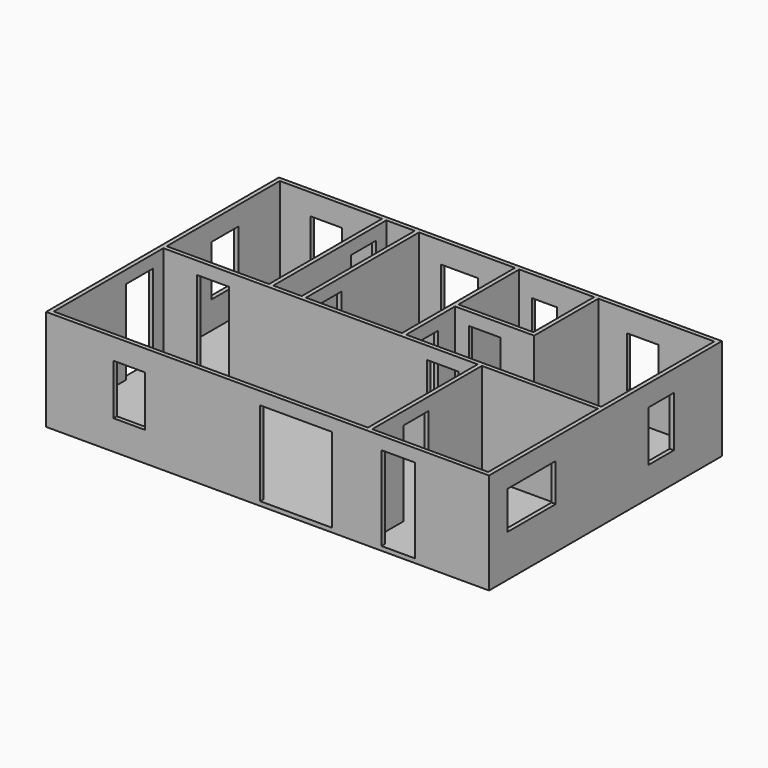
from build123d import *

# Parameters (mm, degrees)
F34_W     = 10668
F34_H     = 7010.4
F0_DEPTH  = 2438.4
F35_T     = -101.6
F1_W      = 101.6
F1_H      = 3403.6
F1_H_2    = 3302
F2_DEPTH  = 2336.8
F36_W     = 762
F36_H     = 2032
F3_DEPTH  = 101.6
F37_W     = 812.8
F37_H     = 2032
F38_DEPTH = 101.6
F39_W     = 812.8
F39_H     = 2032
F4_DEPTH  = 101.6
F5_W      = 812.8
F5_H      = 1219.2
F6_DEPTH  = 101.6
F7_W      = 762
F7_H      = 1219.2
F40_DEPTH = 101.6
F8_W      = 762
F8_H      = 2032
F9_DEPTH  = 101.6
F10_W     = 762
F10_H     = 2032
F11_DEPTH = 101.6
F12_W     = 762
F12_H     = 2032
F13_DEPTH = 101.6
F14_W     = 762
F14_H     = 2032
F15_DEPTH = 101.6
F16_W     = 889
F16_H     = 1219.2
F17_DEPTH = 101.6
F18_W     = 609.6
F18_H     = 762
F19_DEPTH = 101.6
F20_W     = 1447.8
F20_H     = 914.4
F21_DEPTH = 101.6
F22_W     = 762
F22_H     = 1219.2
F23_DEPTH = 101.6
F24_W     = 762
F24_H     = 1219.2
F25_DEPTH = 101.6
F26_W     = 762
F26_H     = 1219.2
F27_DEPTH = 101.6
F28_W     = 1727.2
F28_H     = 2032
F29_DEPTH = 101.6
F30_W     = 762
F30_H     = 2032
F31_DEPTH = 101.6
F32_W     = 762
F32_H     = 2032
F33_DEPTH = 101.6


with BuildPart() as f0:
    # F34 (on Top) → F0 (new body)
    with BuildSketch(Plane.XY):
        with Locations((5334, 3505.2)):
            Rectangle(F34_W, F34_H)
    extrude(amount=F0_DEPTH)

    # F35
    f35_openings = [f0.faces().sort_by_distance(p)[0] for p in [
        (5334, 3505.2, 2438.4),
    ]]
    offset(amount=F35_T, openings=f35_openings)

    # F1 (on face) → F2 (join, through all)
    with BuildSketch(Plane.XY.offset(101.6)):
        with Locations((2616.2, 5207)):
            Rectangle(F1_W, F1_H)
        Polygon((7772.4, 3403.6), (10566.4, 3403.6), (10566.4, 3505.2), (5867.4, 3505.2), (5765.8, 3505.2), (3454.4, 3505.2), (3352.8, 3505.2), (2667, 3505.2), (2565.4, 3505.2), (101.6, 3505.2), (101.6, 3403.6), (7670.8, 3403.6), align=None)
        with Locations((3403.6, 5207)):
            Rectangle(F1_W, F1_H)
        Polygon((5765.8, 3505.2), (5867.4, 3505.2), (5867.4, 4978.4), (5867.4, 5080), (5867.4, 6908.8), (5765.8, 6908.8), align=None)
        Polygon((5867.4, 5080), (5867.4, 4978.4), (7772.4, 4978.4), (7772.4, 6908.8), (7670.8, 6908.8), (7670.8, 5080), align=None)
        with Locations((7721.6, 1752.6)):
            Rectangle(F1_W, F1_H_2)
    extrude(amount=F2_DEPTH)

    # F36 (on face) → F3 (cut, through all)
    with BuildSketch(Plane(origin=(0, 3505.2, 0), x_dir=(-1, 0, 0), z_dir=(0, 1, 0))):
        with Locations((-1295.4, 1117.6)):
            Rectangle(F36_W, F36_H)
    extrude(amount=-F3_DEPTH, mode=Mode.SUBTRACT)

    # F37 (on face) → F38 (cut, through all)
    with BuildSketch(Plane(origin=(0, 101.6, 0), x_dir=(-1, 0, 0), z_dir=(0, 1, 0))):
        with Locations((-8483.6, 1117.6)):
            Rectangle(F37_W, F37_H)
    extrude(amount=-F38_DEPTH, mode=Mode.SUBTRACT)

    # F39 (on face) → F4 (cut, through all)
    with BuildSketch(Plane.YZ.offset(101.6)):
        with Locations((2692.4, 1117.6)):
            Rectangle(F39_W, F39_H)
    extrude(amount=-F4_DEPTH, mode=Mode.SUBTRACT)

    # F5 (on face) → F6 (cut, through all)
    with BuildSketch(Plane.YZ.offset(101.6)):
        with Locations((5257.8, 1371.6)):
            Rectangle(F5_W, F5_H)
    extrude(amount=-F6_DEPTH, mode=Mode.SUBTRACT)

    # F7 (on face) → F40 (cut, through all)
    with BuildSketch(Plane.XZ.offset(-6908.8)):
        with Locations((1219.2, 1320.8)):
            Rectangle(F7_W, F7_H)
    extrude(amount=-F40_DEPTH, mode=Mode.SUBTRACT)

    # F8 (on face) → F9 (cut, through all)
    with BuildSketch(Plane.YZ.offset(7772.4)):
        with Locations((1422.4, 1117.6)):
            Rectangle(F8_W, F8_H)
    extrude(amount=-F9_DEPTH, mode=Mode.SUBTRACT)

    # F10 (on face) → F11 (cut, through all)
    with BuildSketch(Plane.XZ.offset(-3403.6)):
        with Locations((6832.6, 1117.6)):
            Rectangle(F10_W, F10_H)
    extrude(amount=-F11_DEPTH, mode=Mode.SUBTRACT)

    # F12 (on face) → F13 (cut, through all)
    with BuildSketch(Plane.XZ.offset(-4978.4)):
        with Locations((6578.6, 1117.6)):
            Rectangle(F12_W, F12_H)
    extrude(amount=-F13_DEPTH, mode=Mode.SUBTRACT)

    # F14 (on face) → F15 (cut, through all)
    with BuildSketch(Plane.YZ.offset(5867.4)):
        with Locations((4089.4, 1117.6)):
            Rectangle(F14_W, F14_H)
    extrude(amount=-F15_DEPTH, mode=Mode.SUBTRACT)

    # F16 (on face) → F17 (cut, through all)
    with BuildSketch(Plane.XZ.offset(-6908.8)):
        with Locations((4432.3, 1320.8)):
            Rectangle(F16_W, F16_H)
    extrude(amount=-F17_DEPTH, mode=Mode.SUBTRACT)

    # F18 (on face) → F19 (cut, through all)
    with BuildSketch(Plane.XZ.offset(-6908.8)):
        with Locations((6477, 1549.4)):
            Rectangle(F18_W, F18_H)
    extrude(amount=-F19_DEPTH, mode=Mode.SUBTRACT)

    # F20 (on face) → F21 (cut, through all)
    with BuildSketch(Plane(origin=(10566.4, 0, 0), x_dir=(0, -1, 0), z_dir=(-1, 0, 0))):
        with Locations((-1282.7, 1473.2)):
            Rectangle(F20_W, F20_H)
    extrude(amount=-F21_DEPTH, mode=Mode.SUBTRACT)

    # F22 (on face) → F23 (cut, through all)
    with BuildSketch(Plane.XZ.offset(-6908.8)):
        with Locations((8839.2, 1320.8)):
            Rectangle(F22_W, F22_H)
    extrude(amount=-F23_DEPTH, mode=Mode.SUBTRACT)

    # F24 (on face) → F25 (cut, through all)
    with BuildSketch(Plane(origin=(10566.4, 0, 0), x_dir=(0, -1, 0), z_dir=(-1, 0, 0))):
        with Locations((-5181.6, 1320.8)):
            Rectangle(F24_W, F24_H)
    extrude(amount=-F25_DEPTH, mode=Mode.SUBTRACT)

    # F26 (on face) → F27 (cut, through all)
    with BuildSketch(Plane(origin=(0, 101.6, 0), x_dir=(-1, 0, 0), z_dir=(0, 1, 0))):
        with Locations((-2006.6, 1320.8)):
            Rectangle(F26_W, F26_H)
    extrude(amount=-F27_DEPTH, mode=Mode.SUBTRACT)

    # F28 (on face) → F29 (cut, through all)
    with BuildSketch(Plane(origin=(0, 101.6, 0), x_dir=(-1, 0, 0), z_dir=(0, 1, 0))):
        with Locations((-6019.8, 1117.6)):
            Rectangle(F28_W, F28_H)
    extrude(amount=-F29_DEPTH, mode=Mode.SUBTRACT)

    # F30 (on face) → F31 (cut, through all)
    with BuildSketch(Plane(origin=(2565.4, 0, 0), x_dir=(0, -1, 0), z_dir=(-1, 0, 0))):
        with Locations((-6223, 1117.6)):
            Rectangle(F30_W, F30_H)
    extrude(amount=-F31_DEPTH, mode=Mode.SUBTRACT)

    # F32 (on face) → F33 (cut, through all)
    with BuildSketch(Plane.YZ.offset(3454.4)):
        with Locations((4191, 1117.6)):
            Rectangle(F32_W, F32_H)
    extrude(amount=-F33_DEPTH, mode=Mode.SUBTRACT)


solid = f0.part
